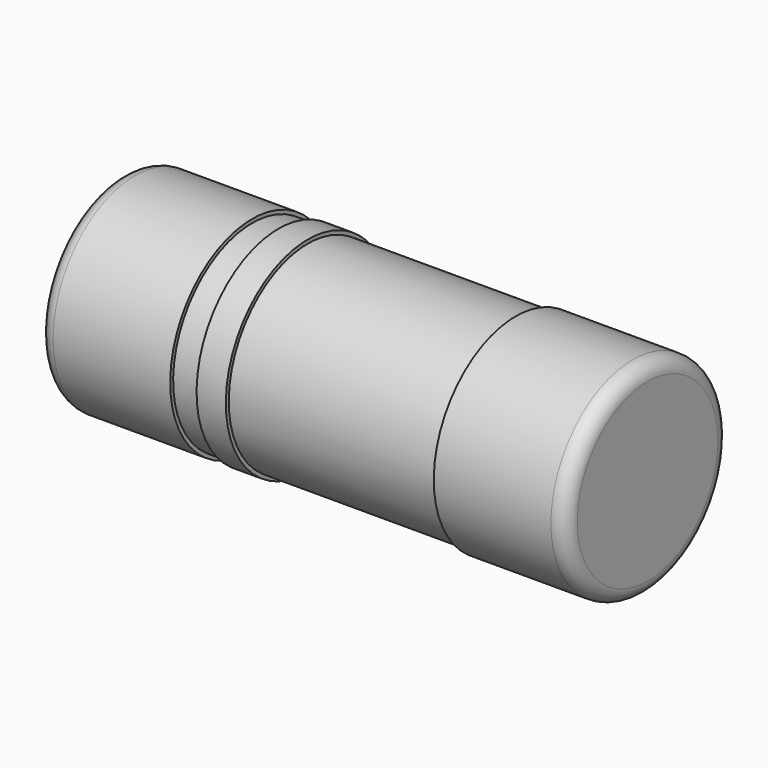
from build123d import *

# Parameters (mm, degrees)
SKETCH002_W = 0.2
SKETCH002_H = 0.05
SKETCH_W    = 2.7
SKETCH_H    = 0.675


with BuildPart() as revolution002:
    # Sketch002 → Revolution002 (revolve)
    with BuildSketch(Plane(origin=(0, 0, 0), x_dir=(-1, 0, 0), z_dir=(0, 1, 0))):
        with Locations((0.62, 0.025)):
            Rectangle(SKETCH002_W, SKETCH002_H)
    revolve(axis=Axis((1.725436, 0, 0.7), (-1, 0, 0)))


with BuildPart() as revolution001:
    # Sketch001 → Revolution001 (revolve)
    with BuildSketch(Plane.XZ):
        with BuildLine():
            Line((-1.7, 0), (-0.9, 0))
            Line((-0.9, 0), (-0.9, 0.19375))
            Line((-0.9, 0.19375), (0.9, 0.19375))
            Line((0.9, 0), (0.9, 0.19375))
            Line((0.9, 0), (1.7, 0))
            ThreePointArc((1.7, 0), (1.770711, 0.029289), (1.8, 0.1))
            Line((1.8, 0.1), (1.8, 0.7))
            Line((-1.8, 0.7), (1.8, 0.7))
            Line((-1.8, 0.7), (-1.8, 0.1))
            ThreePointArc((-1.8, 0.1), (-1.770711, 0.029289), (-1.7, 0))
        make_face()
    revolve(axis=Axis((-8.2, 0, 0.7), (1, 0, 0)))


with BuildPart() as obj1:
    # Sketch → Revolution (revolve)
    with BuildSketch(Plane.XZ):
        with Locations((0, 0.3625)):
            Rectangle(SKETCH_W, SKETCH_H)
    revolve(axis=Axis((-15.061842, 0, 0.7), (1, 0, 0)))

    # Fusion: union Revolution002, Revolution001
    add(revolution002.part)
    add(revolution001.part)


solid = obj1.part
